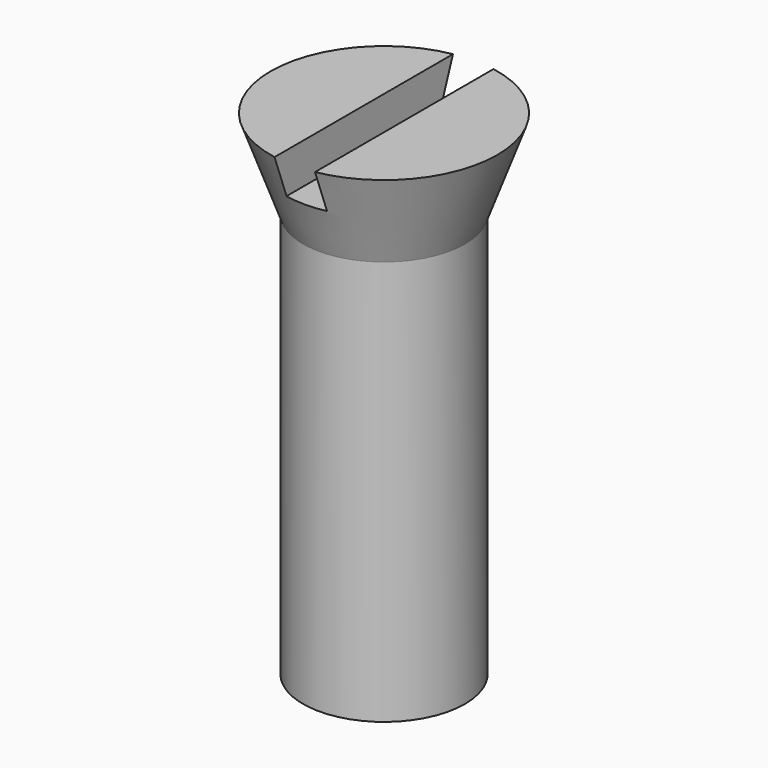
from build123d import *

# Parameters (mm, degrees)
BOX_W          = 1
BOX_H          = 10
BOX_DEPTH      = 1
CYLINDER_R     = 2
CYLINDER_DEPTH = 10


with BuildPart() as ranura:
    # Box → Box (new body)
    with BuildSketch(Plane(origin=(-0.5, -5, 11.2), x_dir=(1, 0, 0), z_dir=(0, 0, 1))):
        with Locations((0.5, 5)):
            Rectangle(BOX_W, BOX_H)
    extrude(amount=BOX_DEPTH)


with BuildPart() as obj1:
    # Cylinder → Cylinder (new body)
    with BuildSketch(Plane.XY):
        Circle(CYLINDER_R)
    extrude(amount=CYLINDER_DEPTH)


with BuildPart() as obj2:
    # Cone → Cone (revolve)
    with BuildSketch(Plane(origin=(0, 0, 10), x_dir=(1, 0, 0), z_dir=(0, -1, 0))):
        Polygon((0, 0), (2, 0), (2.8, 2.2), (0, 2.2), align=None)
    revolve(axis=Axis((0, 0, 10), (0, 0, 1)))

    # Fusion: union obj1
    add(obj1.part)

    # Cut: cut Ranura
    add(ranura.part, mode=Mode.SUBTRACT)


solid = obj2.part
